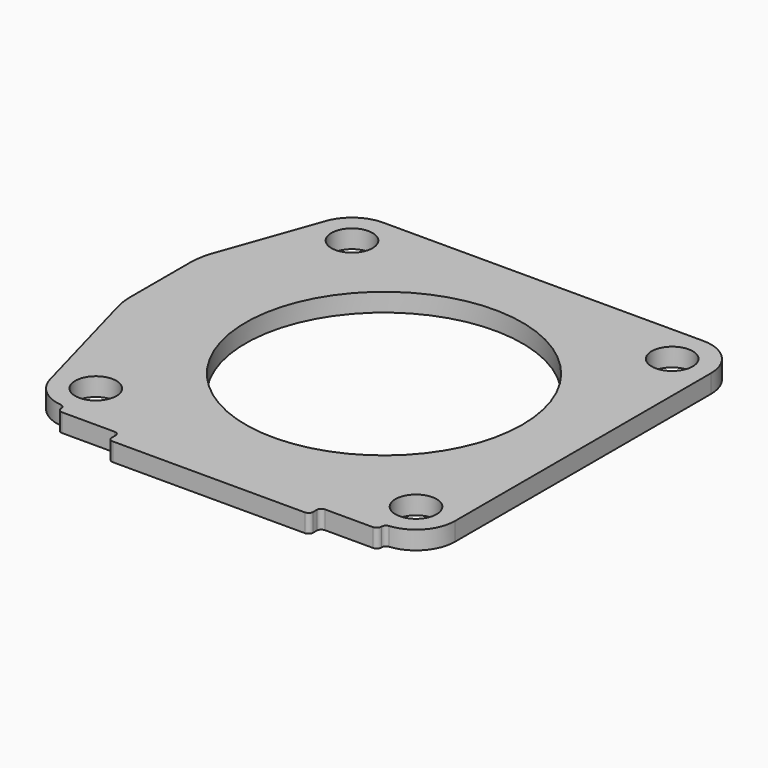
from build123d import *

# Parameters (mm, degrees)
F0_R     = 4.5
F0_R_2   = 30.25
F0_W     = 44
F0_H     = 3
F1_DEPTH = 4
F2_R     = 15
F3_R     = 1


with BuildPart() as f1:
    # F0 (on Top) → F1 (new body)
    with BuildSketch(Plane.XY):
        with BuildLine():
            ThreePointArc((-43.501786, 35.001786), (-35.001786, 26.501786), (-26.501786, 35.001786))
            ThreePointArc((-26.501786, 35.001786), (-28.991378, 41.012193), (-35.001786, 43.501786))
            ThreePointArc((-35.001786, 43.501786), (-39.901995, 41.94714), (-43.009713, 37.851891))
            ThreePointArc((-43.009713, 37.851891), (-43.377864, 36.447921), (-43.501786, 35.001786))
        make_face()
        with Locations((-35.001786, 35.001786)):
            Circle(F0_R, mode=Mode.SUBTRACT)
        with BuildLine():
            ThreePointArc((-35.001786, 43.501786), (-28.991378, 41.012193), (-26.501786, 35.001786))
            ThreePointArc((-26.501786, 35.001786), (-35.001786, 26.501786), (-43.501786, 35.001786))
            Line((-43.501786, 35.001786), (-43.501786, -35.001786))
            ThreePointArc((-43.501786, -35.001786), (-35.001786, -26.501786), (-26.501786, -35.001786))
            ThreePointArc((-26.501786, -35.001786), (-28.991378, -41.012193), (-35.001786, -43.501786))
            Line((-35.001786, -43.501786), (35.001786, -43.501786))
            ThreePointArc((35.001786, -43.501786), (28.991378, -28.991378), (43.501786, -35.001786))
            Line((43.501786, -35.001786), (43.501786, 35.001786))
            ThreePointArc((43.501786, 35.001786), (28.991378, 28.991378), (35.001786, 43.501786))
            Line((35.001786, 43.501786), (-35.001786, 43.501786))
        make_face()
        Circle(F0_R_2, mode=Mode.SUBTRACT)
        with BuildLine():
            Line((-43.501786, -35.001786), (-43.501786, 35.001786))
            ThreePointArc((-43.501786, 35.001786), (-43.377864, 36.447921), (-43.009713, 37.851891))
            Line((-43.009713, 37.851891), (-51.498214, 14.001786))
            Line((-51.498214, 14.001786), (-51.498214, -6.998214))
            Line((-51.498214, -6.998214), (-43.198922, -37.250552))
            ThreePointArc((-43.198922, -37.250552), (-43.42573, -36.13632), (-43.501786, -35.001786))
        make_face()
        with BuildLine():
            ThreePointArc((43.501786, 35.001786), (41.012193, 41.012193), (35.001786, 43.501786))
            ThreePointArc((35.001786, 43.501786), (28.991378, 28.991378), (43.501786, 35.001786))
        make_face()
        with Locations((35.001786, 35.001786)):
            Circle(F0_R, mode=Mode.SUBTRACT)
        with BuildLine():
            ThreePointArc((-26.501786, -35.001786), (-35.001786, -26.501786), (-43.501786, -35.001786))
            ThreePointArc((-43.501786, -35.001786), (-43.42573, -36.13632), (-43.198922, -37.250552))
            ThreePointArc((-43.198922, -37.250552), (-40.156176, -41.760651), (-35.001786, -43.501786))
            ThreePointArc((-35.001786, -43.501786), (-28.991378, -41.012193), (-26.501786, -35.001786))
        make_face()
        with Locations((-35.001786, -35.001786)):
            Circle(F0_R, mode=Mode.SUBTRACT)
        with BuildLine():
            ThreePointArc((35.001786, -43.501786), (41.012193, -41.012193), (43.501786, -35.001786))
            ThreePointArc((43.501786, -35.001786), (28.991378, -28.991378), (35.001786, -43.501786))
        make_face()
        with Locations((35.001786, -35.001786)):
            Circle(F0_R, mode=Mode.SUBTRACT)
        Polygon((35.001786, -43.501786), (-35.001786, -43.501786), (-35.001786, -45.501786), (-21.498214, -45.501786), (22.501786, -45.501786), (35.001786, -45.501786), align=None)
        with Locations((0.501786, -47.001786)):
            Rectangle(F0_W, F0_H)
    extrude(amount=F1_DEPTH)

    # F2
    f2_edges = [f1.edges().sort_by_distance(p)[0] for p in [
        (-51.498214, 14.001786, 2),
        (-51.498214, -6.998214, 2),
    ]]
    fillet(f2_edges, radius=F2_R)

    # F3
    f3_edges = [f1.edges().sort_by_distance(p)[0] for p in [
        (-35.001786, -43.501786, 2),
        (-21.498214, -45.501786, 2),
        (22.501786, -45.501786, 2),
        (35.001786, -43.501786, 2),
        (-35.001786, -45.501786, 2),
        (-21.498214, -48.501786, 2),
        (22.501786, -48.501786, 2),
        (35.001786, -45.501786, 2),
    ]]
    fillet(f3_edges, radius=F3_R)


solid = f1.part
